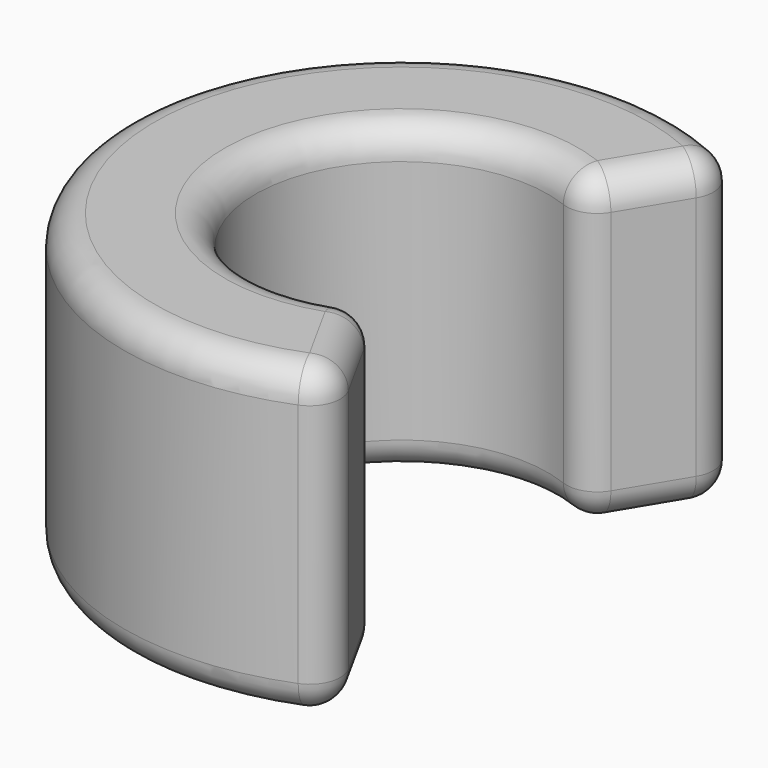
from build123d import *

# Parameters (mm, degrees)
F1_DEPTH = 8
F2_R     = 0.8


with BuildPart() as f1:
    # F0 (on Top) → F1 (new body)
    with BuildSketch(Plane.XY):
        with BuildLine():
            ThreePointArc((1.842185, -3.340745), (-3.814263, 0.074994), (1.972078, 3.265752))
            Line((1.972078, 3.265752), (3.747723, 6.206212))
            ThreePointArc((3.747723, 6.206212), (-7.248599, 0.142517), (3.500876, -6.34873))
            Line((3.500876, -6.34873), (1.842185, -3.340745))
        make_face()
    extrude(amount=F1_DEPTH)

    # F2
    f2_edges = [f1.edges().sort_by_distance(p)[0] for p in [
        (-3.814263, 0.074994, 8),
        (1.972078, 3.265752, 4),
        (-7.248599, 0.142517, 8),
        (2.67153, -4.844738, 0),
        (-3.814263, 0.074994, 0),
        (2.859901, 4.735982, 0),
        (-7.248599, 0.142517, 0),
        (3.500876, -6.34873, 4),
        (1.842185, -3.340745, 4),
        (2.67153, -4.844738, 8),
        (3.747723, 6.206212, 4),
        (2.859901, 4.735982, 8),
    ]]
    fillet(f2_edges, radius=F2_R)


solid = f1.part
